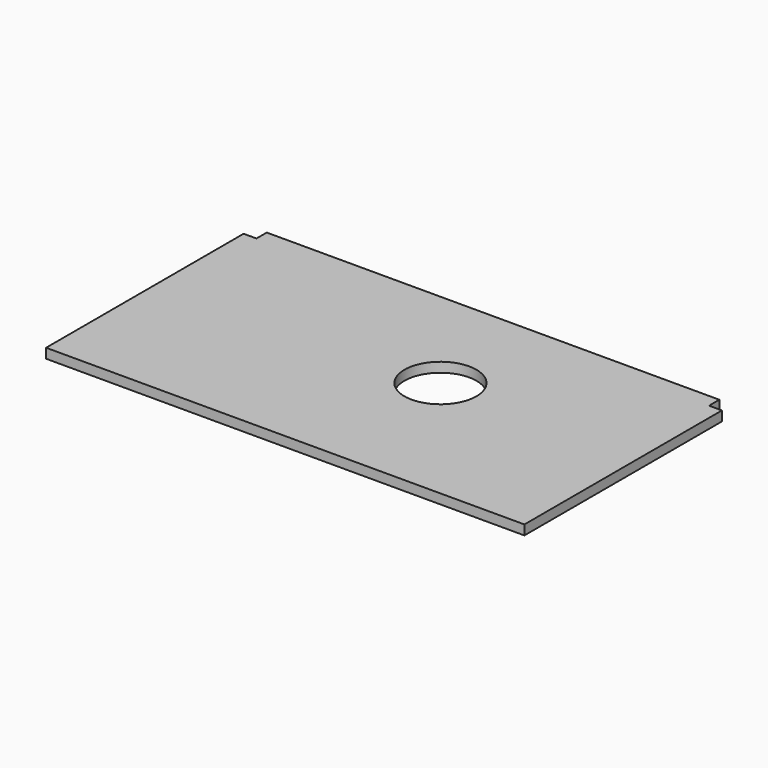
from build123d import *

# Parameters (mm, degrees)
SKETCH_R      = 22.225
EXTRUDE_DEPTH = 5.9944


with BuildPart() as part:
    # Sketch → Extrude (new body)
    with BuildSketch(Plane.XY):
        Polygon((0, 0), (295.275, 0), (295.275, 152.4), (287.3248, 152.4), (287.3248, 160.3502), (7.9502, 160.3502), (7.9502, 152.4), (0, 152.4), align=None)
        with Locations((171.45, 89.9922)):
            Circle(SKETCH_R, mode=Mode.SUBTRACT)
    extrude(amount=EXTRUDE_DEPTH)


solid = part.part
